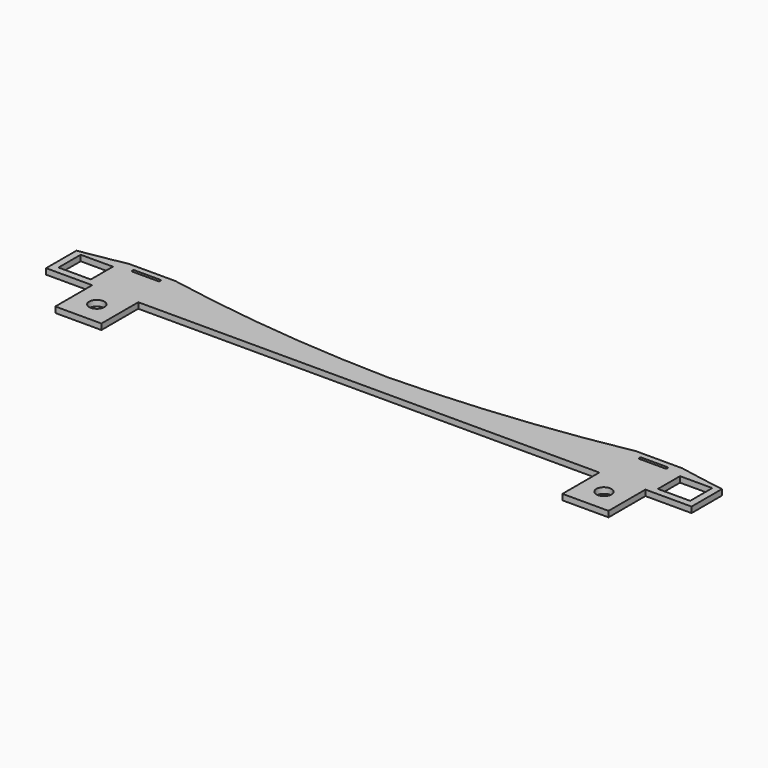
from build123d import *

# Parameters (mm, degrees)
F0_R     = 4.167188
F0_W     = 17.78
F0_H     = 15.24
F1_DEPTH = 3.175


with BuildPart() as f1:
    # F0 (on Top) → F1 (new body)
    with BuildSketch(Plane.XY):
        with BuildLine():
            Line((25.4, 25.671175), (25.4, 0.271175))
            Line((25.4, 0.271175), (50.8, 0.271175))
            Line((50.8, 0.271175), (50.8, 25.671175))
            Line((50.8, 25.671175), (177.8, 25.671175))
            Line((177.8, 25.671175), (304.8, 25.671175))
            Line((304.8, 25.671175), (304.8, 0.271175))
            Line((304.8, 0.271175), (330.2, 0.271175))
            Line((330.2, 0.271175), (330.2, 25.671175))
            Line((330.2, 25.671175), (355.6, 25.671175))
            Line((355.6, 25.671175), (355.6, 46.595866))
            ThreePointArc((355.6, 46.595866), (342.881064, 48.726049), (330.2, 51.071175))
            Line((330.2, 51.071175), (304.8, 51.071175))
            ThreePointArc((304.8, 51.071175), (241.572069, 41.922444), (177.8, 38.102263))
            ThreePointArc((177.8, 38.102263), (114.027931, 41.922444), (50.8, 51.071175))
            Line((50.8, 51.071175), (25.4, 51.071175))
            ThreePointArc((25.4, 51.071175), (12.718936, 48.726049), (0, 46.595866))
            Line((0, 46.595866), (0, 25.671175))
            Line((0, 25.671175), (25.4, 25.671175))
        make_face()
        with Locations((38.1, 12.971175)):
            Circle(F0_R, mode=Mode.SUBTRACT)
        with Locations((317.5, 12.971175)):
            Circle(F0_R, mode=Mode.SUBTRACT)
        with Locations((12.7, 37.101175)):
            Rectangle(F0_W, F0_H, mode=Mode.SUBTRACT)
        with BuildLine():
            ThreePointArc((31.115, 46.308675), (30.32125, 47.102425), (31.115, 47.896175))
            Line((31.115, 47.896175), (45.085, 47.896175))
            ThreePointArc((45.085, 47.896175), (45.87875, 47.102425), (45.085, 46.308675))
            Line((45.085, 46.308675), (31.115, 46.308675))
        make_face(mode=Mode.SUBTRACT)
        with Locations((342.9, 37.101175)):
            Rectangle(F0_W, F0_H, mode=Mode.SUBTRACT)
        with BuildLine():
            Line((310.515, 47.896175), (324.485, 47.896175))
            ThreePointArc((324.485, 47.896175), (325.27875, 47.102425), (324.485, 46.308675))
            Line((324.485, 46.308675), (310.515, 46.308675))
            ThreePointArc((310.515, 46.308675), (309.72125, 47.102425), (310.515, 47.896175))
        make_face(mode=Mode.SUBTRACT)
    extrude(amount=F1_DEPTH)


solid = f1.part
